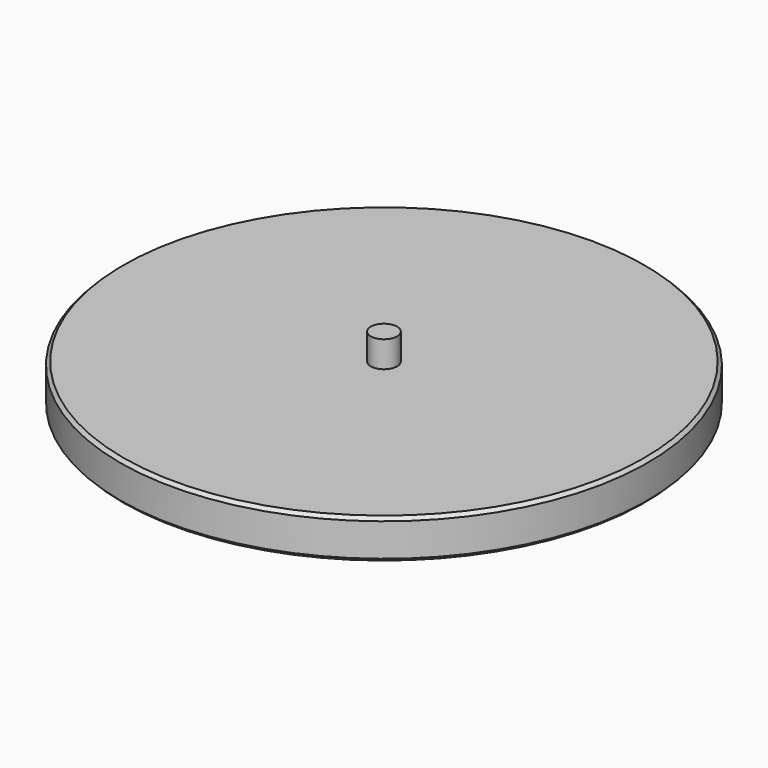
from build123d import *

# Parameters (mm, degrees)
F0_W     = 127
F0_H     = 19.05
F2_SIZE2 = 1.5875
F2_SIZE  = 1.5875
F3_R     = 6.35
F4_DEPTH = 12.7


with BuildPart() as f1:
    # F0 (on Right) → F1 (revolve)
    with BuildSketch(Plane.YZ):
        with Locations((63.5, 9.525)):
            Rectangle(F0_W, F0_H)
    revolve(axis=Axis((0, 0, 9.525), (0, 0, 1)))

    # F2
    f2_edges = [f1.edges().sort_by_distance(p)[0] for p in [
        (0, -127, 0),
        (0, -127, 19.05),
    ]]
    chamfer(f2_edges, length=F2_SIZE, length2=F2_SIZE2)

    # F3 (on face) → F4 (join)
    with BuildSketch(Plane.XY.offset(19.05)):
        Circle(F3_R)
    extrude(amount=F4_DEPTH)


solid = f1.part
